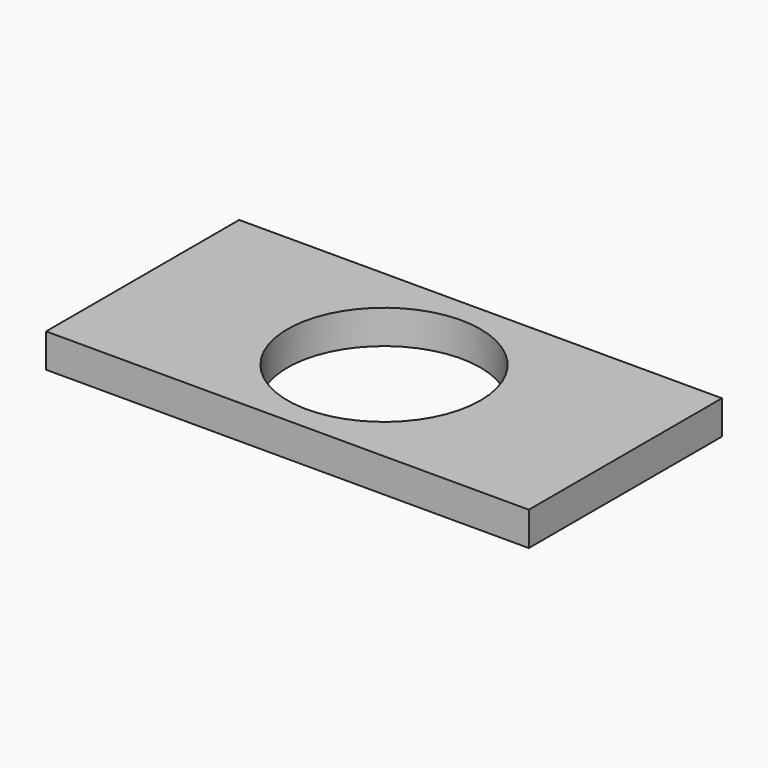
from build123d import *

# Parameters (mm, degrees)
SKETCH_W  = 200
SKETCH_H  = 100
SKETCH_R  = 40
PAD_DEPTH = 14


with BuildPart() as part:
    # Sketch → Pad (new body)
    with BuildSketch(Plane.XY):
        with Locations((100, 50)):
            Rectangle(SKETCH_W, SKETCH_H)
        with Locations((100, 50)):
            Circle(SKETCH_R, mode=Mode.SUBTRACT)
    extrude(amount=PAD_DEPTH)


solid = part.part
